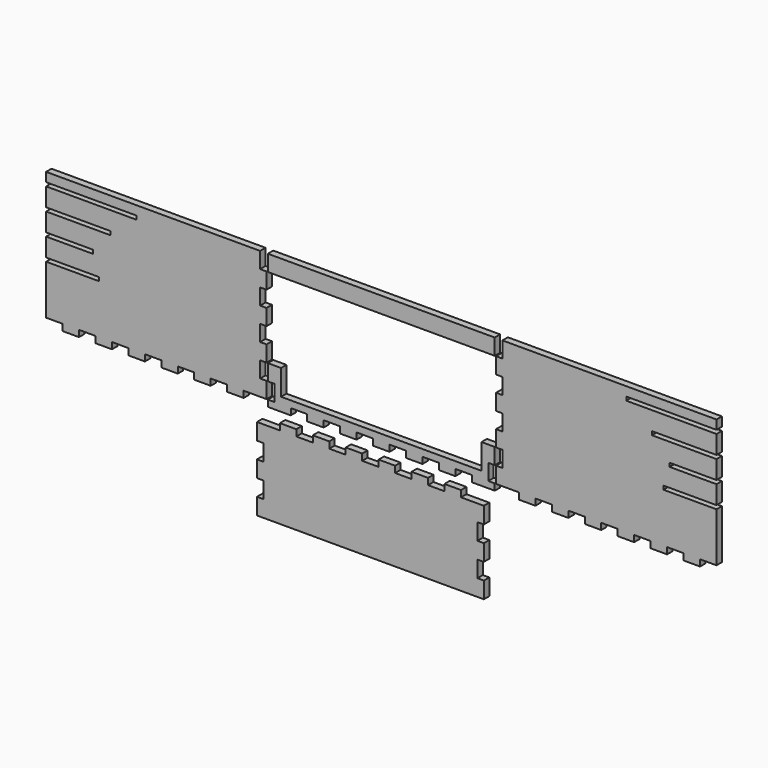
from build123d import *

# Parameters (mm, degrees)
F1_DEPTH  = 25.4
F2_W      = 748.7075676096
F2_H      = 848.5167367798
F3_DEPTH  = 25.4
F4_DEPTH  = 50.8
F5_DEPTH  = 50.8
F6_W      = 484.0495600177
F6_H      = 13.716
F6_W_2    = 412.1675600177
F6_W_3    = 336.9835600177
F6_W_4    = 241.2255600177
F6_W_5    = 175.1855600177
F6_W_6    = 198.0455600177
F7_DEPTH  = 25.4
F8_W      = 484.0495600177
F8_H      = 13.716
F8_W_2    = 412.1675600177
F8_W_3    = 241.2255600177
F8_W_4    = 336.9835600177
F8_W_5    = 175.1855600177
F8_W_6    = 198.0455600177
F9_DEPTH  = 25.4
F12_DEPTH = 25.4
F14_DEPTH = 25.4
F15_W     = 799.5082171161
F15_H     = 59.8295440163
F16_DEPTH = 25.4
F18_DEPTH = 25.4
F20_DEPTH = 25.4
F21_W     = 748.7075676096
F21_H     = 59.8445326286
F22_DEPTH = 25.4
F25_DEPTH = 25.4
F27_DEPTH = 25.4
F29_DEPTH = 25.4
F30_W     = 748.7075676096
F30_H     = 60.0843504251
F31_DEPTH = 25.4
F33_DEPTH = 25.4


with BuildPart() as f1:
    # F0 (on Front) → F1 (new body)
    with BuildSketch(Plane.XZ):
        Polygon((-1282.5722890517, 417.166847342), (-1282.5722890517, -482.2648021319), (-1221.0793588067, -482.2648021319), (-1221.0793588067, -506.2515779835), (-1159.4671691699, -506.2515779835), (-1159.4671691699, -482.2648021319), (-1098.0962961908, -482.2648021319), (-1098.0962961908, -506.2515779835), (-1036.484106554, -506.2515779835), (-1036.484106554, -482.2648021319), (-975.1127339545, -482.2648021319), (-975.1127339545, -506.2515779835), (-913.5005443177, -506.2515779835), (-913.5005443177, -482.2648021319), (-852.1296713386, -482.2648021319), (-852.1296713386, -506.2515779835), (-790.5154832202, -506.2515779835), (-790.5154832202, -482.2648021319), (-729.1471083432, -482.2648021319), (-729.1471083432, -506.2515779835), (-667.5339194656, -506.2515779835), (-667.5339194656, -482.2648021319), (-606.1655445885, -482.2648021319), (-606.1655445885, -506.2515779835), (-544.5523557109, -506.2515779835), (-544.5523557109, -482.2648021319), (-483.0640719357, -482.2648021319), (-459.0772960841, -482.2648021319), (-459.0772960841, -422.185447911), (-483.0640719357, -422.185447911), (-483.0640719357, -362.3609000987), (-459.0772960841, -362.3609000987), (-459.0772960841, -302.2765496736), (-483.0640719357, -302.2765496736), (-483.0640719357, -242.4470056573), (-459.0772960841, -242.4470056573), (-459.0772960841, -182.3776438445), (-483.0640719357, -182.3776438445), (-483.0640719357, -122.5331112159), (-459.0772960841, -122.5331112159), (-459.0772960841, -62.458753199), (-483.0640719357, -62.458753199), (-483.0640719357, -2.6292091827), (-459.0772960841, -2.6292091827), (-459.0772960841, 57.4501450383), (-483.0640719357, 57.4501450383), (-483.0640719357, 117.2796890546), (-459.0772960841, 117.2796890546), (-459.0772960841, 177.3590432756), (-483.0640719357, 177.3590432756), (-483.0640719357, 237.1885872919), (-459.0772960841, 237.1885872919), (-459.0772960841, 297.2629453088), (-483.0640719357, 297.2629453088), (-483.0640719357, 357.0924893251), (-459.0772960841, 357.0924893251), (-459.0772960841, 417.166847342), align=None)
    extrude(amount=F1_DEPTH)

    # F8 (on face) → F9 (cut)
    with BuildSketch(Plane.XZ.offset(25.4)):
        with Locations((-1040.5475090429, 121.6081105622)):
            Rectangle(F8_W, F8_H)
        with Locations((-1076.4885090429, 39.0581105622)):
            Rectangle(F8_W_2, F8_H)
        with Locations((-1161.9595090429, -126.0418894378)):
            Rectangle(F8_W_3, F8_H)
        with Locations((-1114.0805090429, -43.4918894378)):
            Rectangle(F8_W_4, F8_H)
        with Locations((-1194.9795090429, -208.5918894378)):
            Rectangle(F8_W_5, F8_H)
        with Locations((-1183.5495090429, -291.1418894378)):
            Rectangle(F8_W_6, F8_H)
    extrude(amount=-F9_DEPTH, mode=Mode.SUBTRACT)

    # F15 (on face) → F16 (cut)
    with BuildSketch(Plane.XZ.offset(25.4)):
        Polygon((-1282.5722890517, 237.1885872919), (-483.0640719357, 237.1885872919), (-459.0772960841, 237.1885872919), (-459.0772960841, 297.2629453088), (-483.0640719357, 297.2629453088), (-483.0640719357, 357.0924893251), (-459.0772960841, 357.0924893251), (-459.0772960841, 417.166847342), (-1282.5722890517, 417.166847342), align=None)
        with Locations((-882.8181804937, 207.2738152838)):
            Rectangle(F15_W, F15_H)
    extrude(amount=-F16_DEPTH, mode=Mode.SUBTRACT)

    # F26 (on face) → F27 (cut)
    with BuildSketch(Plane.XZ.offset(25.4)):
        Polygon((-483.0640719357, 117.2796890546), (-459.0772960841, 117.2796890546), (-459.0772960841, 177.3590432756), (-1282.5722890517, 177.3590432756), (-1282.5722890517, 128.4661105622), (-798.522729034, 128.4661105622), (-798.522729034, 114.7501105622), (-1282.5722890517, 114.7501105622), (-1282.5722890517, 45.9161105622), (-870.404729034, 45.9161105622), (-870.404729034, 32.2001105622), (-1282.5722890517, 32.2001105622), (-1282.5722890517, -2.6292091827), (-483.0640719357, -2.6292091827), (-459.0772960841, -2.6292091827), (-459.0772960841, 57.4501450383), (-483.0640719357, 57.4501450383), align=None)
    extrude(amount=-F27_DEPTH, mode=Mode.SUBTRACT)


with BuildPart() as f1b:
    # F0 (on Front) → F1, piece 2 (new body)
    with BuildSketch(Plane.XZ):
        Polygon((-454.2059970932, -482.2648021319), (-454.2059970932, -506.2515779835), (-368.6110285682, -506.2515779835), (-368.6110285682, -482.2648021319), (-307.237657487, -482.2648021319), (-307.237657487, -506.2515779835), (-245.6244686094, -506.2515779835), (-245.6244686094, -482.2648021319), (-184.2560937324, -482.2648021319), (-184.2560937324, -506.2515779835), (-122.6429048548, -506.2515779835), (-122.6429048548, -482.2648021319), (-61.2745299777, -482.2648021319), (-61.2745299777, -506.2515779835), (0.3386588999, -506.2515779835), (0.3386588999, -482.2648021319), (61.712029981, -482.2648021319), (61.712029981, -506.2515779835), (123.3252188586, -506.2515779835), (123.3252188586, -482.2648021319), (184.6985899397, -482.2648021319), (184.6985899397, -506.2515779835), (246.3067826132, -506.2515779835), (246.3067826132, -482.2648021319), (307.6851498985, -482.2648021319), (307.6851498985, -506.2515779835), (369.2883463679, -506.2515779835), (393.2801184235, -506.2515779835), (393.2801184235, -482.2648021319), (393.2801184235, -482.1498894378), (369.2883463679, -482.1498894378), (369.2883463679, -422.3053568092), (393.2801184235, -422.3053568092), (393.2801184235, -362.2309987923), (369.2883463679, -362.2309987923), (369.2883463679, -302.401454776), (393.2801184235, -302.401454776), (393.2801184235, -242.3270967591), (369.2883463679, -242.3270967591), (369.2883463679, -182.4925565387), (393.2801184235, -182.4925565387), (393.2801184235, -122.4132023177), (369.2883463679, -122.4132023177), (369.2883463679, -62.5886545055), (393.2801184235, -62.5886545055), (393.2801184235, -2.5043040804), (369.2883463679, -2.5043040804), (369.2883463679, 57.3202437319), (393.2801184235, 57.3202437319), (393.2801184235, 117.3946017488), (369.2883463679, 117.3946017488), (369.2883463679, 177.2391343774), (393.2801184235, 177.2391343774), (393.2801184235, 237.3134923942), (369.2883463679, 237.3134923942), (369.2883463679, 297.1430364106), (393.2801184235, 297.1430364106), (393.2801184235, 357.2223906316), (369.2883463679, 357.2223906316), (369.2883463679, 417.0519346479), (-430.2192212417, 417.0519346479), (-430.2192212417, 357.2223906316), (-454.2059970932, 357.2223906316), (-454.2059970932, 297.1430364106), (-430.2192212417, 297.1430364106), (-430.2192212417, 237.3134923942), (-454.2059970932, 237.3134923942), (-454.2059970932, 177.2391343774), (-430.2192212417, 177.2391343774), (-430.2192212417, 117.3946017488), (-454.2059970932, 117.3946017488), (-454.2059970932, 57.3202437319), (-430.2192212417, 57.3202437319), (-430.2192212417, -2.5043040804), (-454.2059970932, -2.5043040804), (-454.2059970932, -62.5886545055), (-430.2192212417, -62.5886545055), (-430.2192212417, -122.4132023177), (-454.2059970932, -122.4132023177), (-454.2059970932, -182.4925565387), (-430.2192212417, -182.4925565387), (-430.2192212417, -242.3270967591), (-454.2059970932, -242.3270967591), (-454.2059970932, -302.401454776), (-430.2192212417, -302.401454776), (-430.2192212417, -362.2309987923), (-454.2059970932, -362.2309987923), (-454.2059970932, -422.3053568092), (-430.2192212417, -422.3053568092), (-430.2192212417, -482.1498894378), (-454.2059970932, -482.1498894378), align=None)
    extrude(amount=F1_DEPTH)

    # F2 (on face) → F3 (cut)
    with BuildSketch(Plane.XZ.offset(25.4)):
        with Locations((-30.4654374369, -32.606433742)):
            Rectangle(F2_W, F2_H)
    extrude(amount=-F3_DEPTH, mode=Mode.SUBTRACT)

    # F19 (on face) → F20 (cut)
    with BuildSketch(Plane.XZ.offset(25.4)):
        Polygon((-430.2192212417, 177.2391343774), (343.8883463679, 177.2391343774), (343.8883463679, 391.6519346479), (-357.4783238787, 391.6519346479), (-357.1547567844, 417.0519346479), (-430.2192212417, 417.0519346479), (-430.2192212417, 357.2223906316), (-454.2059970932, 357.2223906316), (-454.2059970932, 297.1430364106), (-430.2192212417, 297.1430364106), (-430.2192212417, 237.3134923942), (-454.2059970932, 237.3134923942), (-454.2059970932, 177.2391343774), align=None)
        Polygon((393.2801184235, 237.3134923942), (369.2883463679, 237.3134923942), (369.2883463679, 297.1430364106), (393.2801184235, 297.1430364106), (393.2801184235, 357.2223906316), (369.2883463679, 357.2223906316), (369.2883463679, 417.0519346479), (-357.1547567844, 417.0519346479), (-357.4783238787, 391.6519346479), (343.8883463679, 391.6519346479), (343.8883463679, 177.2391343774), (369.2883463679, 177.2391343774), (393.2801184235, 177.2391343774), align=None)
    extrude(amount=-F20_DEPTH, mode=Mode.SUBTRACT)

    # F21 (on face) → F22 (join)
    with BuildSketch(Plane.XZ.offset(25.4)):
        with Locations((-30.4654374369, 147.3168680631)):
            Rectangle(F21_W, F21_H)
    extrude(amount=-F22_DEPTH)

    # F28 (on face) → F29 (cut)
    with BuildSketch(Plane.XZ.offset(25.4)):
        Polygon((-430.2192212417, 57.3202437319), (-430.2192212417, -2.5043040804), (-404.8192212417, -2.5043040804), (-404.8192212417, 117.3946017488), (343.8883463679, 117.3946017488), (343.8883463679, -2.5043040804), (369.2883463679, -2.5043040804), (369.2883463679, 57.3202437319), (393.2801184235, 57.3202437319), (393.2801184235, 117.3946017488), (369.2883463679, 117.3946017488), (369.2883463679, 177.2391343774), (-430.2192212417, 177.2391343774), (-430.2192212417, 117.3946017488), (-454.2059970932, 117.3946017488), (-454.2059970932, 57.3202437319), align=None)
    extrude(amount=-F29_DEPTH, mode=Mode.SUBTRACT)

    # F30 (on face) → F31 (join)
    with BuildSketch(Plane.XZ.offset(25.4)):
        with Locations((-30.4654374369, -32.5464792929)):
            Rectangle(F30_W, F30_H)
    extrude(amount=-F31_DEPTH)

    # F32 (on face) → F33 (cut)
    with BuildSketch(Plane.XZ.offset(25.4)):
        Polygon((369.2883463679, -122.4132023177), (369.2883463679, -62.5886545055), (-430.2192212417, -62.5886545055), (-430.2192212417, -122.4132023177), (-454.2059970932, -122.4132023177), (-454.2059970932, -182.4925565387), (-430.2192212417, -182.4925565387), (-430.2192212417, -242.3270967591), (-454.2059970932, -242.3270967591), (-454.2059970932, -302.401454776), (-430.2192212417, -302.401454776), (-430.2192212417, -362.2309987923), (369.2883463679, -362.2309987923), (369.2883463679, -302.401454776), (393.2801184235, -302.401454776), (393.2801184235, -242.3270967591), (369.2883463679, -242.3270967591), (369.2883463679, -182.4925565387), (393.2801184235, -182.4925565387), (393.2801184235, -122.4132023177), align=None)
    extrude(amount=-F33_DEPTH, mode=Mode.SUBTRACT)


with BuildPart() as f1c:
    # F0 (on Front) → F1, piece 3 (new body)
    with BuildSketch(Plane.XZ):
        Polygon((422.1331970619, -422.185447911), (398.1514174144, -422.185447911), (398.1514174144, -482.2648021319), (422.1331970619, -482.2648021319), (483.6264770413, -482.2648021319), (483.6264770413, -506.2515779835), (545.2396659189, -506.2515779835), (545.2396659189, -482.2648021319), (606.6080407959, -482.2648021319), (606.6080407959, -506.2515779835), (668.2212296735, -506.2515779835), (668.2212296735, -482.2648021319), (729.5896045505, -482.2648021319), (729.5896045505, -506.2515779835), (791.2027934281, -506.2515779835), (791.2027934281, -482.2648021319), (852.5761645093, -482.2648021319), (852.5761645093, -506.2515779835), (914.1893533869, -506.2515779835), (914.1893533869, -482.2648021319), (975.5577282639, -482.2648021319), (975.5577282639, -506.2515779835), (1037.1709171415, -506.2515779835), (1037.1709171415, -482.2648021319), (1098.5392920186, -482.2648021319), (1098.5392920186, -506.2515779835), (1160.1524808962, -506.2515779835), (1160.1524808962, -482.2648021319), (1221.6507570796, -482.2648021319), (1221.6507570796, 417.166847342), (398.1514174144, 417.166847342), (398.1514174144, 357.0924893251), (422.1331970619, 357.0924893251), (422.1331970619, 297.2629453088), (398.1514174144, 297.2629453088), (398.1514174144, 237.1885872919), (422.1331970619, 237.1885872919), (422.1331970619, 177.3590432756), (398.1514174144, 177.3590432756), (398.1514174144, 117.2796890546), (422.1331970619, 117.2796890546), (422.1331970619, 57.4501450383), (398.1514174144, 57.4501450383), (398.1514174144, -2.6292091827), (422.1331970619, -2.6292091827), (422.1331970619, -62.458753199), (398.1514174144, -62.458753199), (398.1514174144, -122.5331112159), (422.1331970619, -122.5331112159), (422.1331970619, -182.3776438445), (398.1514174144, -182.3776438445), (398.1514174144, -242.4470056573), (422.1331970619, -242.4470056573), (422.1331970619, -302.2765496736), (398.1514174144, -302.2765496736), (398.1514174144, -362.3609000987), (422.1331970619, -362.3609000987), align=None)
    extrude(amount=F1_DEPTH)

    # F6 (on face) → F7 (cut)
    with BuildSketch(Plane.XZ.offset(25.4)):
        with Locations((979.6259770708, 121.6081105622)):
            Rectangle(F6_W, F6_H)
        with Locations((1015.5669770708, 39.0581105622)):
            Rectangle(F6_W_2, F6_H)
        with Locations((1053.1589770708, -43.4918894378)):
            Rectangle(F6_W_3, F6_H)
        with Locations((1101.0379770708, -126.0418894378)):
            Rectangle(F6_W_4, F6_H)
        with Locations((1134.0579770708, -208.5918894378)):
            Rectangle(F6_W_5, F6_H)
        with Locations((1122.6279770708, -291.1418894378)):
            Rectangle(F6_W_6, F6_H)
    extrude(amount=-F7_DEPTH, mode=Mode.SUBTRACT)

    # F17 (on face) → F18 (cut)
    with BuildSketch(Plane.XZ.offset(25.4)):
        Polygon((422.1331970619, 237.1885872919), (422.1331970619, 177.3590432756), (1221.6507570796, 177.3590432756), (1221.6507570796, 417.166847342), (398.1514174144, 417.166847342), (398.1514174144, 357.0924893251), (422.1331970619, 357.0924893251), (422.1331970619, 297.2629453088), (398.1514174144, 297.2629453088), (398.1514174144, 237.1885872919), align=None)
        Polygon((422.1331970619, 237.1885872919), (422.1331970619, 177.3590432756), (1221.6507570796, 177.3590432756), (1221.6507570796, 417.166847342), (398.1514174144, 417.166847342), (398.1514174144, 357.0924893251), (422.1331970619, 357.0924893251), (422.1331970619, 297.2629453088), (398.1514174144, 297.2629453088), (398.1514174144, 237.1885872919), align=None)
    extrude(amount=-F18_DEPTH, mode=Mode.SUBTRACT)

    # F24 (on face) → F25 (cut)
    with BuildSketch(Plane.XZ.offset(25.4)):
        Polygon((1221.6507570796, 114.7501105622), (737.6011970619, 114.7501105622), (737.6011970619, 128.4661105622), (1221.6507570796, 128.4661105622), (1221.6507570796, 177.3590432756), (398.1514174144, 177.3590432756), (398.1514174144, 117.2796890546), (422.1331970619, 117.2796890546), (422.1331970619, 57.4501450383), (398.1514174144, 57.4501450383), (398.1514174144, -2.6292091827), (422.1331970619, -2.6292091827), (1221.6507570796, -2.6292091827), (1221.6507570796, 32.2001105622), (809.4831970619, 32.2001105622), (809.4831970619, 45.9161105622), (1221.6507570796, 45.9161105622), align=None)
    extrude(amount=-F25_DEPTH, mode=Mode.SUBTRACT)


with BuildPart() as f1d:
    # F0 (on Front) → F1, piece 4 (new body)
    with BuildSketch(Plane.XZ):
        Polygon((-430.2192212417, -1273.0055304191), (-454.2059970932, -1273.0055304191), (-454.2059970932, -1334.617869942), (393.2801184235, -1334.617869942), (393.2801184235, -1273.0055304191), (369.2883463679, -1273.0055304191), (369.2883463679, -1211.63465744), (393.2801184235, -1211.63465744), (393.2801184235, -1150.0224678033), (369.2883463679, -1150.0224678033), (369.2883463679, -1088.6510952038), (393.2801184235, -1088.6510952038), (393.2801184235, -1027.038905567), (369.2883463679, -1027.038905567), (369.2883463679, -965.6680325879), (393.2801184235, -965.6680325879), (393.2801184235, -904.0558429511), (369.2883463679, -904.0558429511), (369.2883463679, -842.6859692128), (393.2801184235, -842.6859692128), (393.2801184235, -781.0727803352), (369.2883463679, -781.0727803352), (369.2883463679, -719.6994092541), (393.2801184235, -719.6994092541), (393.2801184235, -658.0912165806), (369.2883463679, -658.0912165806), (369.2883463679, -596.7128492954), (393.2801184235, -596.7128492954), (393.2801184235, -535.1096528259), (369.2883463679, -535.1096528259), (307.8000625926, -535.1096528259), (307.8000625926, -511.1228769744), (246.186873715, -511.1228769744), (246.186873715, -535.1096528259), (184.818498838, -535.1096528259), (184.818498838, -511.1228769744), (123.2053099604, -511.1228769744), (123.2053099604, -535.1096528259), (61.8369350833, -535.1096528259), (61.8369350833, -511.1228769744), (0.2237462057, -511.1228769744), (0.2237462057, -535.1096528259), (-61.1496248754, -535.1096528259), (-61.1496248754, -511.1228769744), (-122.762813753, -511.1228769744), (-122.762813753, -535.1096528259), (-184.13118863, -535.1096528259), (-184.13118863, -511.1228769744), (-245.7443775077, -511.1228769744), (-245.7443775077, -535.1096528259), (-307.1127523847, -535.1096528259), (-307.1127523847, -511.1228769744), (-368.7259412623, -511.1228769744), (-368.7259412623, -535.1096528259), (-430.2192212417, -535.1096528259), (-454.2059970932, -535.1096528259), (-454.2059970932, -596.7128492954), (-430.2192212417, -596.7128492954), (-430.2192212417, -658.0912165806), (-454.2059970932, -658.0912165806), (-454.2059970932, -719.6994092541), (-430.2192212417, -719.6994092541), (-430.2192212417, -781.0727803352), (-454.2059970932, -781.0727803352), (-454.2059970932, -842.6859692128), (-430.2192212417, -842.6859692128), (-430.2192212417, -904.0558429511), (-454.2059970932, -904.0558429511), (-454.2059970932, -965.6680325879), (-430.2192212417, -965.6680325879), (-430.2192212417, -1027.038905567), (-454.2059970932, -1027.038905567), (-454.2059970932, -1088.6510952038), (-430.2192212417, -1088.6510952038), (-430.2192212417, -1150.0224678033), (-454.2059970932, -1150.0224678033), (-454.2059970932, -1211.63465744), (-430.2192212417, -1211.63465744), align=None)
    extrude(amount=F1_DEPTH)

    # F4 (add): a face of the model
    f4_faces = [f1d.faces().sort_by_distance(p)[0] for p in [
        (-30.4640390477, -25.4, -929.4045479401),
    ]]
    extrude(f4_faces, amount=F4_DEPTH)

    # F5 (cut): a face of the model
    f5_faces = [f1d.faces().sort_by_distance(p)[0] for p in [
        (-30.4640390477, 0, -929.4045479401),
    ]]
    extrude(f5_faces, amount=-F5_DEPTH, mode=Mode.SUBTRACT)

    # F11 (on face) → F12 (cut)
    with BuildSketch(Plane.XZ.offset(76.2)):
        Polygon((369.2883463679, -1027.038905567), (-430.2192212417, -1027.038905567), (-454.2059970932, -1027.038905567), (-454.2059970932, -1088.6510952038), (-430.2192212417, -1088.6510952038), (-430.2192212417, -1150.0224678033), (-454.2059970932, -1150.0224678033), (-454.2059970932, -1211.63465744), (-430.2192212417, -1211.63465744), (-430.2192212417, -1273.0055304191), (-454.2059970932, -1273.0055304191), (-454.2059970932, -1334.617869942), (393.2801184235, -1334.617869942), (393.2801184235, -1273.0055304191), (369.2883463679, -1273.0055304191), (369.2883463679, -1211.63465744), (393.2801184235, -1211.63465744), (393.2801184235, -1150.0224678033), (369.2883463679, -1150.0224678033), (369.2883463679, -1088.6510952038), (393.2801184235, -1088.6510952038), (393.2801184235, -1027.038905567), align=None)
    extrude(amount=-F12_DEPTH, mode=Mode.SUBTRACT)

    # F13 (on face) → F14 (cut)
    with BuildSketch(Plane.XZ.offset(76.2)):
        Polygon((369.2883463679, -842.6859692128), (-430.2192212417, -842.6859692128), (-430.2192212417, -904.0558429511), (-454.2059970932, -904.0558429511), (-454.2059970932, -965.6680325879), (-430.2192212417, -965.6680325879), (-430.2192212417, -1027.038905567), (369.2883463679, -1027.038905567), (369.2883463679, -965.6680325879), (393.2801184235, -965.6680325879), (393.2801184235, -904.0558429511), (369.2883463679, -904.0558429511), align=None)
    extrude(amount=-F14_DEPTH, mode=Mode.SUBTRACT)


solid = Compound([f1.part, f1b.part, f1c.part, f1d.part])
